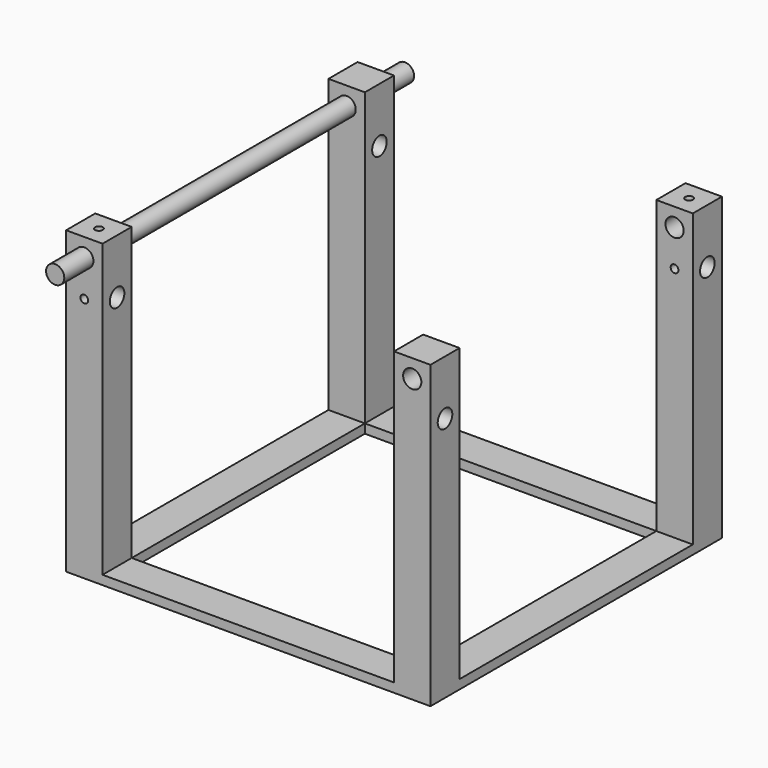
from build123d import *

# Parameters (mm, degrees)
F0_W            = 12.7
F0_H            = 12.7
F0_H_2          = 101.6
F0_W_2          = 101.6
F1_DEPTH        = 3.175
F2_DEPTH        = 101.6
F3_R            = 3.175
F4_DEPTH        = 127.001
F5_R            = 3.175
F6_DEPTH        = 127.001
F10_D           = 2.7051
F10_DEPTH       = 12.7
F10_TIP         = 0.8126940303
F10_ON_F8_D     = 2.7051
F10_ON_F8_DEPTH = 12.7
F10_ON_F8_TIP   = 0.8126940303
F10_ON_F9_D     = 2.7051
F10_ON_F9_DEPTH = 12.7
F10_ON_F9_TIP   = 0.8126940303
F11_R           = 3.175
F12_DEPTH       = 12.7
F12_DEPTH_BACK  = 139.7


with BuildPart() as f1:
    # F0 (on Top) → F1 (new body)
    with BuildSketch(Plane.XY):
        with Locations((-57.15, -57.15)):
            Rectangle(F0_W, F0_H)
        with Locations((-57.15, 0)):
            Rectangle(F0_W, F0_H_2)
        with Locations((-57.15, 57.15)):
            Rectangle(F0_W, F0_H)
        with Locations((0, 57.15)):
            Rectangle(F0_W_2, F0_H)
        with Locations((57.15, 57.15)):
            Rectangle(F0_W, F0_H)
        with Locations((57.15, 0)):
            Rectangle(F0_W, F0_H_2)
        with Locations((57.15, -57.15)):
            Rectangle(F0_W, F0_H)
        with Locations((0, -57.15)):
            Rectangle(F0_W_2, F0_H)
    extrude(amount=-F1_DEPTH)

    # F0 (on Top) → F2 (join)
    with BuildSketch(Plane.XY):
        with Locations((-57.15, -57.15)):
            Rectangle(F0_W, F0_H)
        with Locations((-57.15, 57.15)):
            Rectangle(F0_W, F0_H)
        with Locations((57.15, 57.15)):
            Rectangle(F0_W, F0_H)
        with Locations((57.15, -57.15)):
            Rectangle(F0_W, F0_H)
    extrude(amount=F2_DEPTH)

    # F3 (on face) → F4 (cut, through all)
    with BuildSketch(Plane.XZ.offset(63.5)):
        with Locations((-57.15, 95.25)):
            Circle(F3_R)
        with Locations((57.15, 95.25)):
            Circle(F3_R)
    extrude(amount=-F4_DEPTH, mode=Mode.SUBTRACT)

    # F5 (on face) → F6 (cut, through all)
    with BuildSketch(Plane.YZ.offset(63.5)):
        with Locations((-57.15, 82.55)):
            Circle(F5_R)
        with Locations((57.15, 82.55)):
            Circle(F5_R)
    extrude(amount=-F6_DEPTH, mode=Mode.SUBTRACT)

    # F10
    with Locations(Plane.XY.offset(101.6)):
        with Locations((-57.15, -57.15), (57.15, 57.15)):
            Hole(F10_D / 2, depth=F10_DEPTH)
            with Locations((0, 0, -(F10_DEPTH + F10_TIP / 2))):  # 118° drill point
                Cone(0, F10_D / 2, F10_TIP, mode=Mode.SUBTRACT)

    # F10 on F8
    with Locations(Plane.XZ.offset(63.5)):
        with Locations((-57.15, 82.55)):
            Hole(F10_ON_F8_D / 2, depth=F10_ON_F8_DEPTH)
            with Locations((0, 0, -(F10_ON_F8_DEPTH + F10_ON_F8_TIP / 2))):  # 118° drill point
                Cone(0, F10_ON_F8_D / 2, F10_ON_F8_TIP, mode=Mode.SUBTRACT)

    # F10 on F9
    with Locations(Plane(origin=(0, 63.5, 0), x_dir=(-1, 0, 0), z_dir=(0, 1, 0))):
        with Locations((-57.15, 82.55)):
            Hole(F10_ON_F9_D / 2, depth=F10_ON_F9_DEPTH)
            with Locations((0, 0, -(F10_ON_F9_DEPTH + F10_ON_F9_TIP / 2))):  # 118° drill point
                Cone(0, F10_ON_F9_D / 2, F10_ON_F9_TIP, mode=Mode.SUBTRACT)


with BuildPart() as f12:
    # F11 (on face) → F12 (new body, two sides)
    with BuildSketch(Plane.XZ.offset(63.5)) as f12_sk:
        with Locations((-57.15, 95.25)):
            Circle(F11_R)
    extrude(amount=F12_DEPTH)
    extrude(f12_sk.sketch, amount=-F12_DEPTH_BACK)


solid = Compound([f1.part, f12.part])
